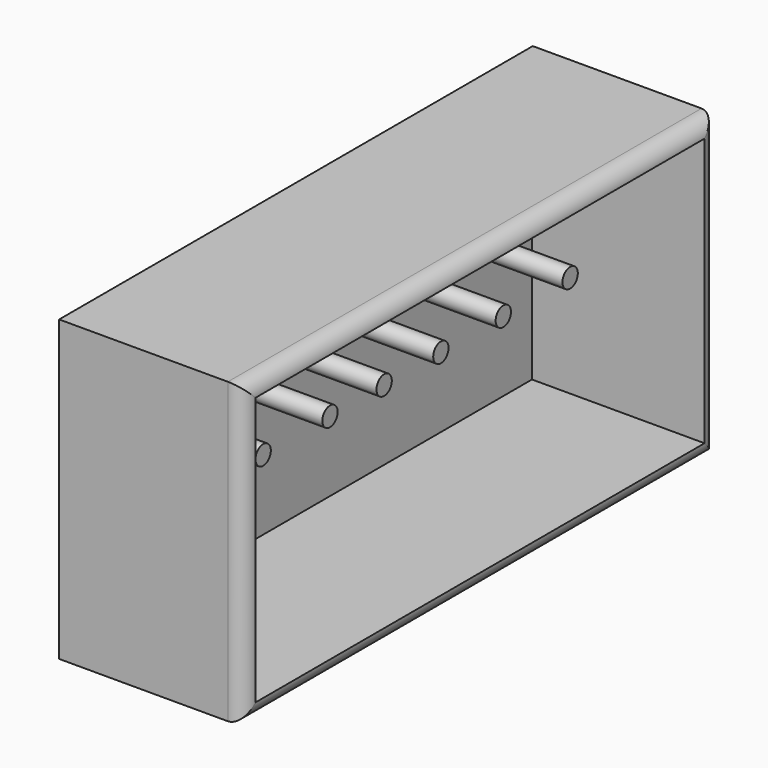
from build123d import *

# Parameters (mm, degrees)
F0_W     = 196.053922
F0_H     = 98.98296
F1_DEPTH = 60.96
F2_R     = 5.08
F3_W     = 185.893922
F3_H     = 88.82296
F4_DEPTH = 57.15
F6_R     = 3.175
F6_R_2   = 2.606289
F7_DEPTH = 25.4


with BuildPart() as f1:
    # F0 (on Right) → F1 (new body)
    with BuildSketch(Plane.YZ):
        Rectangle(F0_W, F0_H)
    extrude(amount=F1_DEPTH)

    # F2
    f2_edges = [f1.edges().sort_by_distance(p)[0] for p in [
        (60.96, 98.026961, 0),
        (60.96, 0, 49.49148),
        (60.96, -98.026961, 0),
        (60.96, 0, -49.49148),
    ]]
    fillet(f2_edges, radius=F2_R)

    # F3 (on face) → F4 (cut)
    with BuildSketch(Plane.YZ.offset(60.96)):
        Rectangle(F3_W, F3_H)
    extrude(amount=-F4_DEPTH, mode=Mode.SUBTRACT)

    # F6 (on face) → F7 (join)
    with BuildSketch(Plane.YZ.offset(3.81)):
        Circle(F6_R)
        with Locations((23.48576, 0)):
            Circle(F6_R)
        with Locations((49.327695, 0)):
            Circle(F6_R)
        with Locations((76.993772, 0)):
            Circle(F6_R)
        with Locations((-22.421679, 0)):
            Circle(F6_R)
        with Locations((-50.087753, 0)):
            Circle(F6_R)
        with Locations((-77.395896, 0)):
            Circle(F6_R_2)
    extrude(amount=F7_DEPTH)


solid = f1.part
